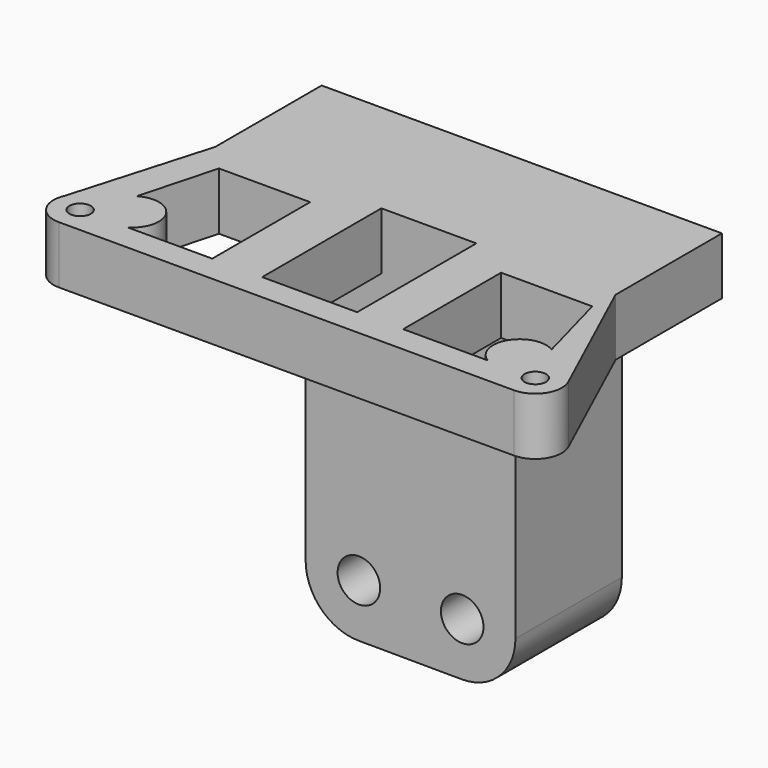
from build123d import *

# Parameters (mm, degrees)
F0_R     = 4
F0_W     = 8.679679
F0_H     = 10.759186
F0_W_2   = 8.318029
F1_DEPTH = 25
F2_R     = 2.02011
F3_DEPTH = 10.8


with BuildPart() as f1:
    # F0 (on Front) → F1 (new body)
    with BuildSketch(Plane.XZ):
        with BuildLine():
            Line((-6.148105, 0), (-22.784157, 0))
            Line((-22.784157, 0), (-22.784157, -52.168488))
            ThreePointArc((-22.784157, -52.168488), (-19.855225, -59.239556), (-12.784157, -62.168488))
            Line((-12.784157, -62.168488), (6.593126, -62.251667))
            ThreePointArc((6.593126, -62.251667), (13.691926, -59.337987), (16.636051, -52.251759))
            Line((16.636051, -52.251759), (16.636051, 0))
            Line((16.636051, 0), (-0.148105, 0))
            Line((-0.148105, 0), (-6.148105, 0))
        make_face()
        with Locations((-12.784157, -52.168488)):
            Circle(F0_R, mode=Mode.SUBTRACT)
        with Locations((6.636051, -52.251759)):
            Circle(F0_R, mode=Mode.SUBTRACT)
        Polygon((-31.102182, 0), (-22.784157, 0), (-6.148105, 0), (-0.148105, 0), (16.636051, 0), (27.123995, 0), (27.123995, 10.759186), (-31.102182, 10.759186), align=None)
        with Locations((-35.442021, 5.379593)):
            Rectangle(F0_W, F0_H)
        with Locations((31.283009, 5.379593)):
            Rectangle(F0_W_2, F0_H)
    extrude(amount=F1_DEPTH)

    # F2 (on face) → F3 (join)
    with BuildSketch(Plane.XY.offset(10.759186)):
        with BuildLine():
            Line((47.311614, -50.91811), (35.442024, -25))
            Line((35.442024, -25), (9.295952, -25))
            Line((9.295952, -25), (9.295952, -53))
            Line((9.295952, -53), (-8.551909, -53))
            Line((-8.551909, -53), (-8.551909, -25))
            Line((-8.551909, -25), (-39.781861, -25))
            Line((-39.781861, -25), (-47.311614, -50.91811))
            ThreePointArc((-47.311614, -50.91811), (-46.973354, -55.700977), (-42.765656, -58))
            Line((-42.765656, -58), (0, -58))
            Line((0, -58), (42.765656, -58))
            ThreePointArc((42.765656, -58), (46.973354, -55.700977), (47.311614, -50.91811))
        make_face()
        with Locations((-42.765656, -53)):
            Circle(F2_R, mode=Mode.SUBTRACT)
        with Locations((42.765656, -53)):
            Circle(F2_R, mode=Mode.SUBTRACT)
        with BuildLine():
            Line((-35.077496, -30), (-17.941007, -30))
            Line((-17.941007, -30), (-17.941007, -53))
            Line((-17.941007, -53), (-33.836756, -53))
            ThreePointArc((-33.836756, -53), (-32.121772, -46.140056), (-38.981716, -44.425072))
            Line((-38.981716, -44.425072), (-35.077496, -30))
        make_face(mode=Mode.SUBTRACT)
        with BuildLine():
            Line((17.941007, -53), (17.941007, -30))
            Line((17.941007, -30), (35.077496, -30))
            Line((35.077496, -30), (38.981716, -44.425072))
            ThreePointArc((38.981716, -44.425072), (32.121772, -46.140056), (33.836756, -53))
            Line((33.836756, -53), (17.941007, -53))
        make_face(mode=Mode.SUBTRACT)
    extrude(amount=-F3_DEPTH)


solid = f1.part
